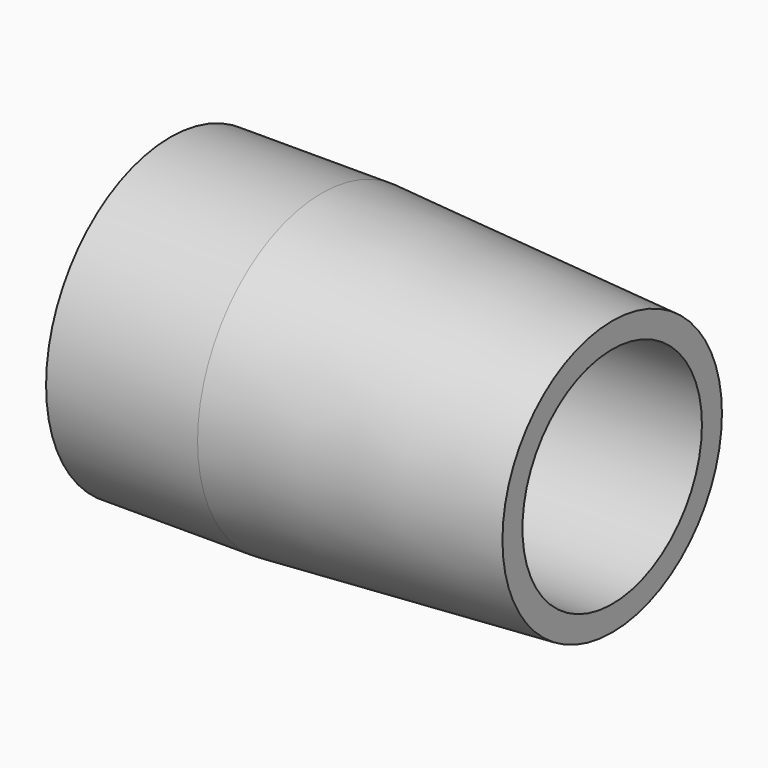
from build123d import *

# Parameters (mm, degrees)
F2_R      = 12.9286
F3_DEPTH  = 12.6238
F3_FACE_R = 12.9286
F0_R      = 11.43
F5_R      = 9.3472
F6_DEPTH  = 36.831


with BuildPart() as f3:
    # F2 (on offset) → F3 (new body)
    with BuildSketch(Plane.YZ.offset(-24.2062)):
        Circle(F2_R)
    extrude(amount=-F3_DEPTH)

    # F3_face (on face) → F4 section 0
    with BuildSketch(Plane.YZ.offset(-24.2062)):
        Circle(F3_FACE_R)
    # F0 (on Right) → F4 section 1
    with BuildSketch(Plane.YZ):
        Circle(F0_R)
    loft()

    # F5 (on face) → F6 (cut, through all)
    with BuildSketch(Plane.YZ):
        Circle(F5_R)
    extrude(amount=-F6_DEPTH, mode=Mode.SUBTRACT)


solid = f3.part
